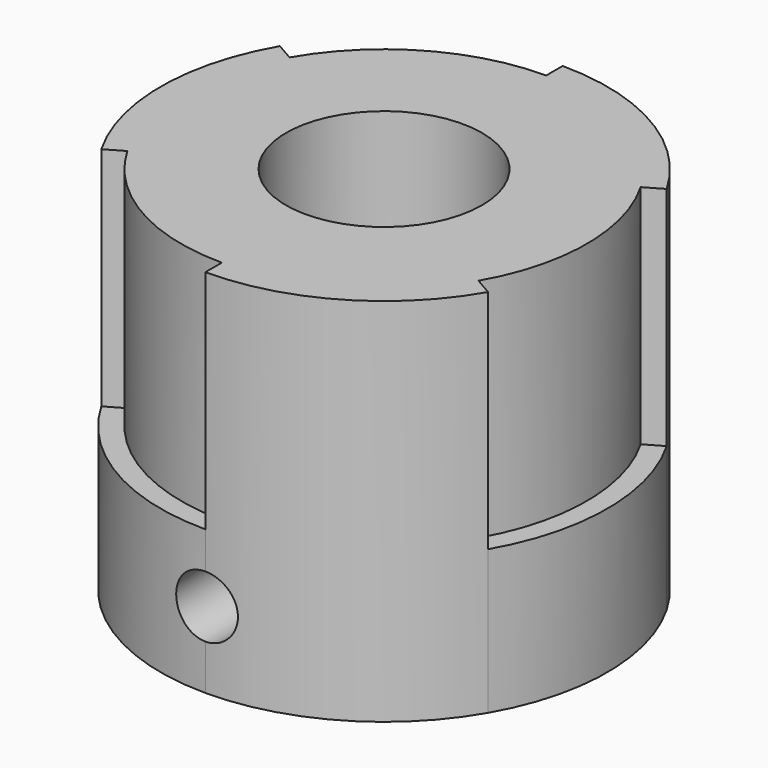
from build123d import *

# Parameters (mm, degrees)
F0_R     = 4.7625
F1_DEPTH = 18
F2_R     = 10.85
F2_R_2   = 4.7625
F3_DEPTH = 7
F4_R     = 1.5
F5_DEPTH = 12.5


with BuildPart() as f1:
    # F0 (on Top) → F1 (new body)
    with BuildSketch(Plane.XY):
        with BuildLine():
            Line((0, 10.85), (0, 9.85))
            ThreePointArc((0, 9.85), (-4.925, 8.53035), (-8.53035, 4.925))
            Line((-8.53035, 4.925), (-9.396376, 5.425))
            ThreePointArc((-9.396376, 5.425), (-10.85, 0), (-9.396376, -5.425))
            Line((-9.396376, -5.425), (-8.53035, -4.925))
            ThreePointArc((-8.53035, -4.925), (-4.925, -8.53035), (0, -9.85))
            Line((0, -9.85), (0, -10.85))
            ThreePointArc((0, -10.85), (5.425, -9.396376), (9.396376, -5.425))
            Line((9.396376, -5.425), (8.53035, -4.925))
            ThreePointArc((8.53035, -4.925), (9.85, 0), (8.53035, 4.925))
            Line((8.53035, 4.925), (9.396376, 5.425))
            ThreePointArc((9.396376, 5.425), (5.425, 9.396376), (0, 10.85))
        make_face()
        Circle(F0_R, mode=Mode.SUBTRACT)
    extrude(amount=F1_DEPTH)

    # F2 (on Top) → F3 (join)
    with BuildSketch(Plane.XY):
        Circle(F2_R)
        Circle(F2_R_2, mode=Mode.SUBTRACT)
    extrude(amount=F3_DEPTH)

    # F4 (on Front) → F5 (cut, symmetric)
    with BuildSketch(Plane.XZ):
        with Locations((0, 3.7)):
            Circle(F4_R)
    extrude(amount=F5_DEPTH, both=True, mode=Mode.SUBTRACT)


solid = f1.part
